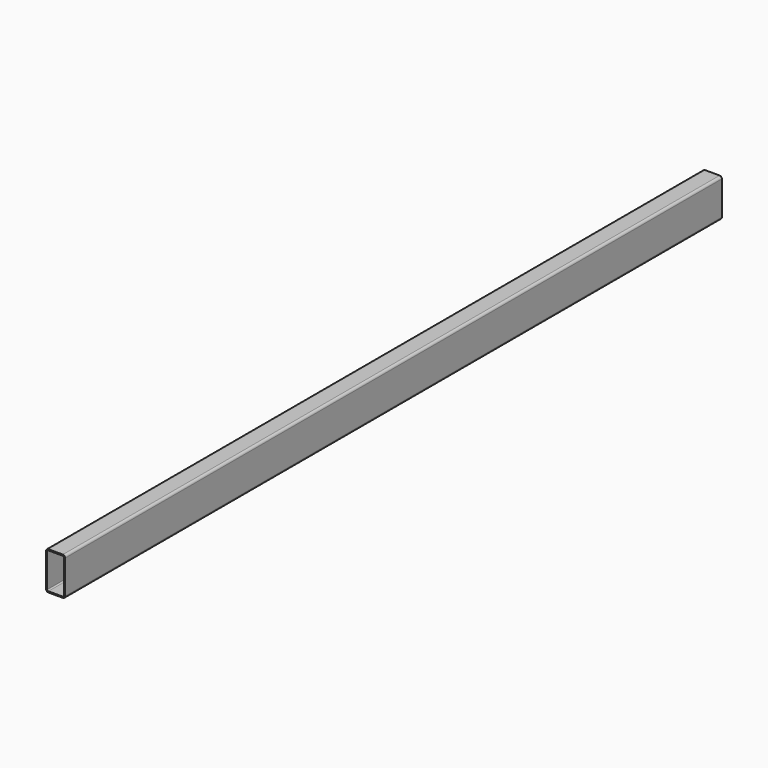
from build123d import *

# Parameters (mm, degrees)
F1_DEPTH = 2150


with BuildPart() as f1:
    # F0 (on Front) → F1 (new body)
    with BuildSketch(Plane.XZ):
        with BuildLine():
            Line((19, 50), (0, 50))
            Line((0, 50), (-19, 50))
            ThreePointArc((-19, 50), (-23.242641, 48.242641), (-25, 44))
            Line((-25, 44), (-25, -44))
            ThreePointArc((-25, -44), (-23.242641, -48.242641), (-19, -50))
            Line((-19, -50), (0, -50))
            Line((0, -50), (19, -50))
            ThreePointArc((19, -50), (23.242641, -48.242641), (25, -44))
            Line((25, -44), (25, 44))
            ThreePointArc((25, 44), (23.242641, 48.242641), (19, 50))
        make_face()
        with BuildLine():
            Line((-19, 47), (0, 47))
            Line((0, 47), (19, 47))
            ThreePointArc((19, 47), (21.12132, 46.12132), (22, 44))
            Line((22, 44), (22, -44))
            ThreePointArc((22, -44), (21.12132, -46.12132), (19, -47))
            Line((19, -47), (0, -47))
            Line((0, -47), (-19, -47))
            ThreePointArc((-19, -47), (-21.12132, -46.12132), (-22, -44))
            Line((-22, -44), (-22, 44))
            ThreePointArc((-22, 44), (-21.12132, 46.12132), (-19, 47))
        make_face(mode=Mode.SUBTRACT)
    extrude(amount=F1_DEPTH)


solid = f1.part
